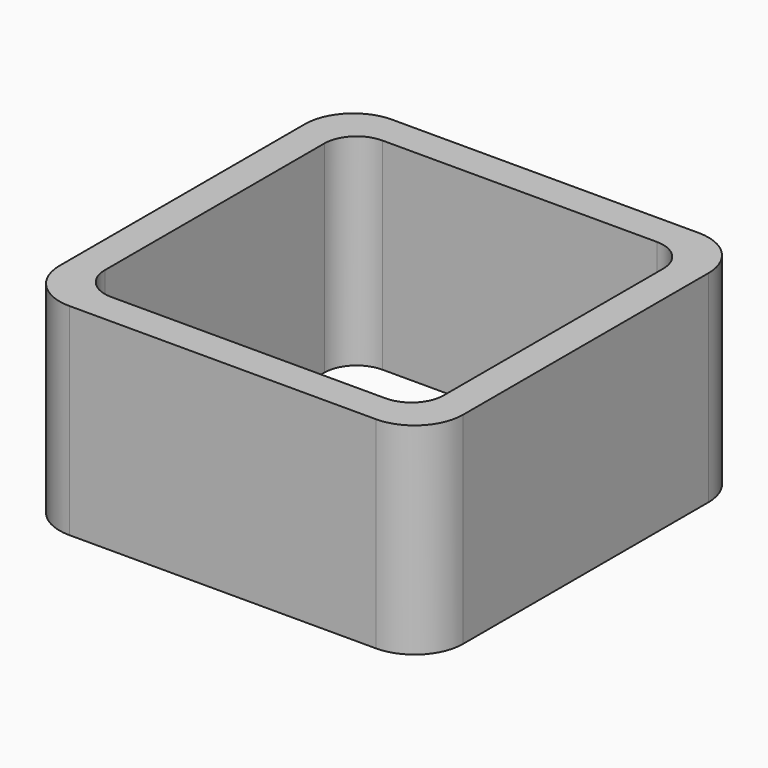
from build123d import *

# Parameters (mm, degrees)
EXTRUDE_DEPTH = 50


with BuildPart() as part:
    # Sketch → Extrude (new body)
    with BuildSketch(Plane.XY):
        with BuildLine():
            Line((-38, 50), (38, 50))
            ThreePointArc((50, 38), (46.485281, 46.485281), (38, 50))
            Line((50, 38), (50, -38))
            ThreePointArc((38, -50), (46.485281, -46.485281), (50, -38))
            Line((38, -50), (-38, -50))
            ThreePointArc((-50, -38), (-46.485281, -46.485281), (-38, -50))
            Line((-50, -38), (-50, 38))
            ThreePointArc((-38, 50), (-46.485281, 46.485281), (-50, 38))
        make_face()
        with BuildLine():
            Line((-34, 42), (34, 42))
            ThreePointArc((42, 34), (39.656854, 39.656854), (34, 42))
            Line((42, 34), (42, -34))
            ThreePointArc((34, -42), (39.656854, -39.656854), (42, -34))
            Line((34, -42), (-34, -42))
            ThreePointArc((-42, -34), (-39.656854, -39.656854), (-34, -42))
            Line((-42, -34), (-42, 34))
            ThreePointArc((-34, 42), (-39.656854, 39.656854), (-42, 34))
        make_face(mode=Mode.SUBTRACT)
    extrude(amount=EXTRUDE_DEPTH)


solid = part.part
